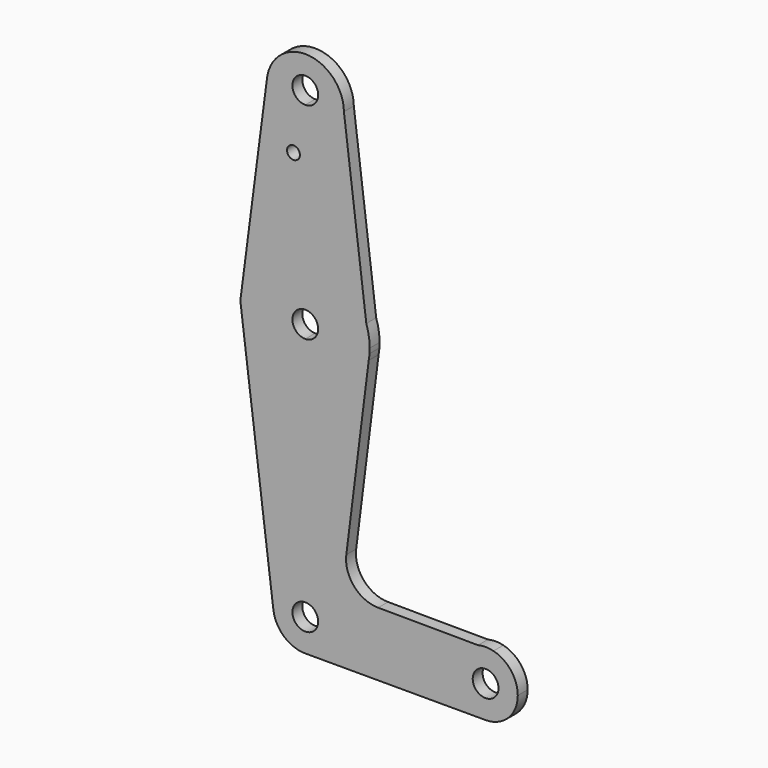
from build123d import *

# Parameters (mm, degrees)
F0_R     = 1.5875
F1_DEPTH = 3.048


with BuildPart() as f1:
    # F0 (on Front) → F1 (new body)
    with BuildSketch(Plane.XZ):
        with BuildLine():
            Line((-53.0701784344, -48.9813857483), (-57.8326784344, -48.9813857483))
            ThreePointArc((-57.8326784344, -48.9813857483), (-63.2527424646, -51.2264497785), (-61.0076784344, -45.8063857483))
            Line((-61.0076784344, -45.8063857483), (-61.0076784344, -41.0438857483))
            ThreePointArc((-61.0076784344, -41.0438857483), (-66.9617844537, -43.7323355713), (-68.8825511914, -49.9765165488))
            ThreePointArc((-68.8825511914, -49.9765165488), (-66.1649334181, -55.0151762056), (-60.7646011964, -56.9151628882))
            ThreePointArc((-60.7646011964, -56.9151628882), (-55.3097256517, -54.50743681), (-53.0701784344, -48.9813857483))
        make_face()
        with BuildLine():
            ThreePointArc((-61.0076784344, -41.0438857483), (-55.3950183587, -43.3687256726), (-53.0701784344, -48.9813857483))
            Line((-53.0701784344, -48.9813857483), (-24.4951784344, -48.9813857483))
            ThreePointArc((-24.4951784344, -48.9813857483), (-22.7958828193, -44.0733604527), (-18.4255816339, -41.2667993117))
            Line((-18.4255816339, -41.2667993117), (-43.0514981252, -41.1378847863))
            ThreePointArc((-43.0514981252, -41.1378847863), (-48.9855036259, -38.4316094497), (-50.8980161389, -32.1963353283))
            Line((-50.8980161389, -32.1963353283), (-45.3706409503, 11.7799806517))
            ThreePointArc((-45.3706409503, 11.7799806517), (-50.7963864139, 2.3635299547), (-61.0076784344, -1.3563857482))
            Line((-61.0076784344, -1.3563857482), (-61.0076784344, -41.0438857483))
        make_face()
        with BuildLine():
            Line((-24.4951784344, -48.9813857483), (-53.0701784344, -48.9813857483))
            ThreePointArc((-53.0701784344, -48.9813857483), (-55.3097256517, -54.50743681), (-60.7646011964, -56.9151628882))
            Line((-60.7646011964, -56.9151628882), (-16.5583468913, -56.9188857201))
            ThreePointArc((-16.5583468913, -56.9188857201), (-22.1705748403, -54.5938094837), (-24.4951784344, -48.9813857483))
        make_face()
        with BuildLine():
            ThreePointArc((-68.8825511914, -49.9765165488), (-66.9617844537, -43.7323355713), (-61.0076784344, -41.0438857483))
            Line((-61.0076784344, -41.0438857483), (-61.0076784344, -1.3563857482))
            ThreePointArc((-61.0076784344, -1.3563857482), (-72.9371059125, 4.04468023), (-76.7491838572, 16.5726814832))
            Line((-76.7491838572, 16.5726814832), (-77.025061538, 14.4584631234))
            Line((-77.025061538, 14.4584631234), (-68.8825511914, -49.9765165488))
        make_face()
        with BuildLine():
            ThreePointArc((-18.4255816339, -41.2667993117), (-22.7958828193, -44.0733604527), (-24.4951784344, -48.9813857483))
            ThreePointArc((-24.4951784344, -48.9813857483), (-22.1705748403, -54.5938094837), (-16.5583468913, -56.9188857201))
            ThreePointArc((-16.5583468913, -56.9188857201), (-10.9452546989, -54.5942821542), (-8.6201784344, -48.9813857483))
            ThreePointArc((-8.6201784344, -48.9813857483), (-10.2938667921, -44.1060837104), (-14.6091094481, -41.2867782108))
            Line((-14.6091094481, -41.2867782108), (-18.4255816339, -41.2667993117))
        make_face()
        with BuildLine():
            ThreePointArc((-13.3826784344, -48.9813857483), (-16.5576784344, -52.1563857483), (-19.7326784344, -48.9813857483))
            ThreePointArc((-19.7326784344, -48.9813857483), (-16.5576784344, -45.8063857483), (-13.3826784344, -48.9813857483))
        make_face(mode=Mode.SUBTRACT)
        with BuildLine():
            Line((-61.0076784344, 11.3436142521), (-61.0076784344, -1.3563857482))
            ThreePointArc((-61.0076784344, -1.3563857482), (-50.7963864139, 2.3635299547), (-45.3706409503, 11.7799806517))
            Line((-45.3706409503, 11.7799806517), (-45.1792913752, 13.3023758378))
            Line((-45.1792913752, 13.3023758378), (-45.9649630306, 19.5914550923))
            ThreePointArc((-45.9649630306, 19.5914550923), (-51.7479461861, 27.4133352898), (-61.0076784344, 30.3936142517))
            Line((-61.0076784344, 30.3936142517), (-61.0076784344, 17.6936142514))
            ThreePointArc((-61.0076784344, 17.6936142514), (-58.7625848399, 16.7636944512), (-57.8326327008, 14.5186142517))
            ThreePointArc((-57.8326327008, 14.5186142517), (-58.7625848399, 12.2735340523), (-61.0076784344, 11.3436142521))
        make_face()
        with BuildLine():
            ThreePointArc((-76.7491838572, 16.5726814832), (-72.9371059125, 4.04468023), (-61.0076784344, -1.3563857482))
            Line((-61.0076784344, -1.3563857482), (-61.0076784344, 11.3436142521))
            ThreePointArc((-61.0076784344, 11.3436142521), (-64.1826327008, 14.5186142517), (-61.0076784344, 17.6936142514))
            Line((-61.0076784344, 17.6936142514), (-61.0076784344, 30.3936142517))
            ThreePointArc((-61.0076784344, 30.3936142517), (-71.4816010896, 26.4480572895), (-76.7491838572, 16.5726814832))
        make_face()
        with BuildLine():
            ThreePointArc((-14.6091094481, -41.2867782108), (-16.5161268834, -41.0439945069), (-18.4255816339, -41.2667993117))
            Line((-18.4255816339, -41.2667993117), (-14.6091094481, -41.2867782108))
        make_face()
        with BuildLine():
            Line((-70.4985354843, 64.4751994053), (-76.7491838572, 16.5726814832))
            ThreePointArc((-76.7491838572, 16.5726814832), (-71.4816010896, 26.4480572895), (-61.0076784344, 30.3936142517))
            Line((-61.0076784344, 30.3936142517), (-61.0076784344, 54.1444342673))
            ThreePointArc((-61.0076784344, 54.1444342673), (-68.0219687741, 57.2254171948), (-70.4985354843, 64.4751994053))
        make_face()
        with Locations((-63.9193877578, 50.8406142517)):
            Circle(F0_R, mode=Mode.SUBTRACT)
        with BuildLine():
            Line((-45.1792913752, 13.3023758378), (-45.3706409503, 11.7799806517))
            ThreePointArc((-45.3706409503, 11.7799806517), (-45.256562319, 12.538865069), (-45.1792913752, 13.3023758378))
        make_face()
        with BuildLine():
            Line((-61.0076784344, 54.1444342673), (-61.0076784344, 30.3936142517))
            ThreePointArc((-61.0076784344, 30.3936142517), (-51.7479461861, 27.4133352898), (-45.9649630306, 19.5914550923))
            Line((-45.9649630306, 19.5914550923), (-51.4831367666, 63.7628741899))
            ThreePointArc((-51.4831367666, 63.7628741899), (-51.4827930181, 63.7161547906), (-51.4826784344, 63.6694342673))
            ThreePointArc((-51.4826784344, 63.6694342673), (-54.2724863436, 56.9342421765), (-61.0076784344, 54.1444342673))
        make_face()
        with BuildLine():
            ThreePointArc((-51.4831367666, 63.7628741899), (-60.6511178273, 73.1877581499), (-70.4985354843, 64.4751994053))
            ThreePointArc((-70.4985354843, 64.4751994053), (-68.0219687741, 57.2254171948), (-61.0076784344, 54.1444342673))
            ThreePointArc((-61.0076784344, 54.1444342673), (-54.2724863436, 56.9342421765), (-51.4826784344, 63.6694342673))
            ThreePointArc((-51.4826784344, 63.6694342673), (-51.4827930181, 63.7161547906), (-51.4831367666, 63.7628741899))
        make_face()
        with BuildLine():
            ThreePointArc((-57.8326784344, 65.3186142517), (-58.7626144041, 63.0735502215), (-61.0076784344, 62.1436142517))
            ThreePointArc((-61.0076784344, 62.1436142517), (-63.2527424646, 67.563678282), (-57.8326784344, 65.3186142517))
        make_face(mode=Mode.SUBTRACT)
        with BuildLine():
            Line((-45.9649630306, 19.5914550923), (-45.1792913752, 13.3023758378))
            ThreePointArc((-45.1792913752, 13.3023758378), (-45.1443016581, 13.9100477164), (-45.1326327008, 14.5186142517))
            ThreePointArc((-45.1326327008, 14.5186142517), (-45.3420971847, 17.088949248), (-45.9649630306, 19.5914550923))
        make_face()
        with BuildLine():
            ThreePointArc((-61.0076784344, -45.8063857483), (-58.7626144041, -46.736321718), (-57.8326784344, -48.9813857483))
            Line((-57.8326784344, -48.9813857483), (-53.0701784344, -48.9813857483))
            ThreePointArc((-53.0701784344, -48.9813857483), (-55.3950183587, -43.3687256726), (-61.0076784344, -41.0438857483))
            Line((-61.0076784344, -41.0438857483), (-61.0076784344, -45.8063857483))
        make_face()
    extrude(amount=F1_DEPTH)


solid = f1.part
